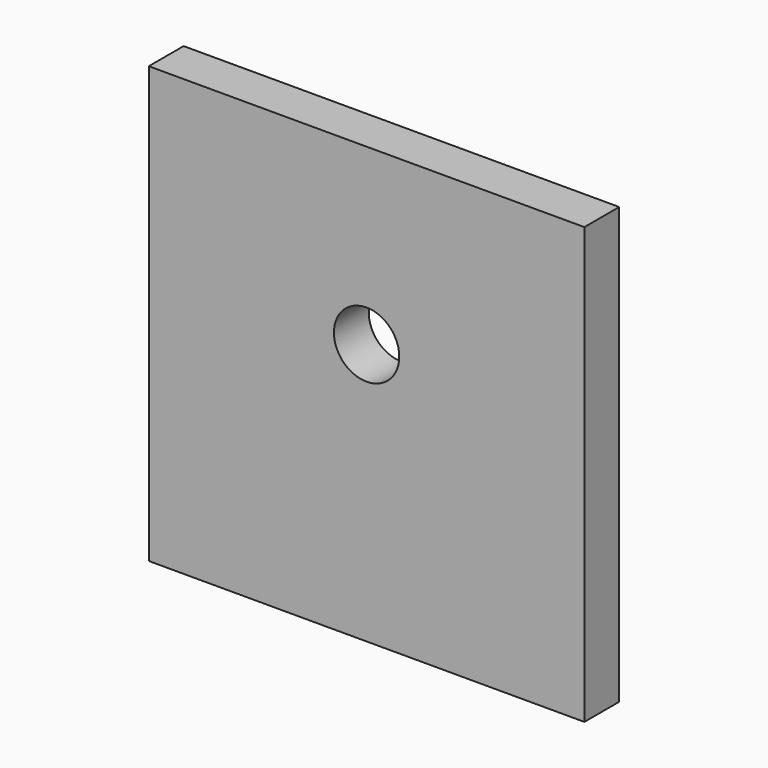
from build123d import *

# Parameters (mm, degrees)
F0_W     = 127
F0_H     = 127
F0_R     = 9.525
F1_DEPTH = 6.35


with BuildPart() as f1:
    # F0 (on Front) → F1 (new body, symmetric)
    with BuildSketch(Plane.XZ):
        Rectangle(F0_W, F0_H)
        with Locations((0, 12.7)):
            Circle(F0_R, mode=Mode.SUBTRACT)
    extrude(amount=F1_DEPTH, both=True)


solid = f1.part
